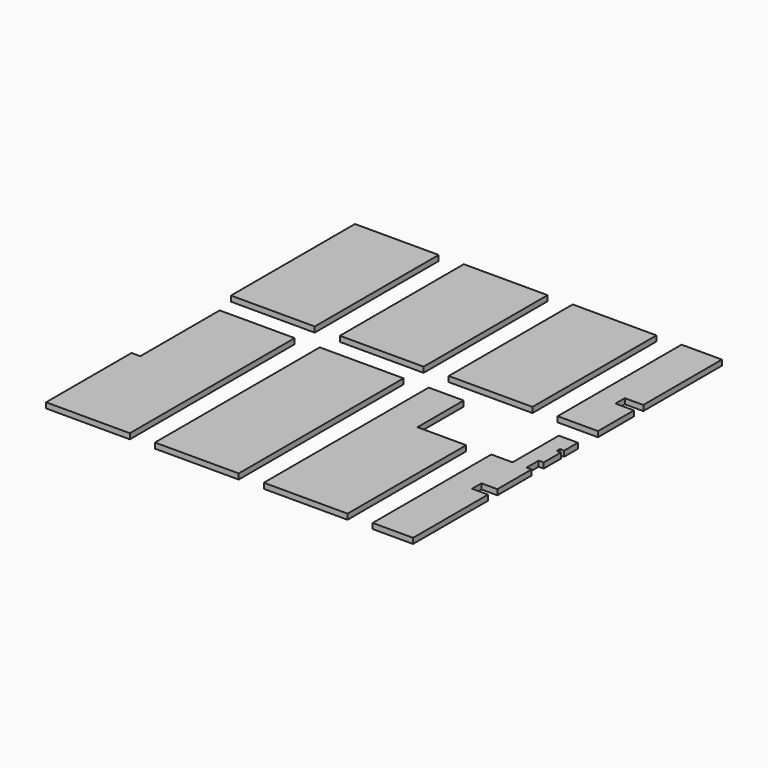
from build123d import *

# Parameters (mm, degrees)
F0_W     = 1000
F0_H     = 1850
F0_H_2   = 2460
F1_DEPTH = 65


with BuildPart() as f1:
    # F0 (on Top) → F1 (new body)
    with BuildSketch(Plane.XY):
        with Locations((-38.833477, 16.868559)):
            Rectangle(F0_W, F0_H)
        with Locations((1261.166523, 16.868559)):
            Rectangle(F0_W, F0_H)
        with Locations((2561.166523, 16.868559)):
            Rectangle(F0_W, F0_H)
        Polygon((3361.166523, 941.868559), (3361.166523, -908.131441), (3843.166523, -908.131441), (3843.166523, -372.131441), (3623.166523, -372.131441), (3623.166523, -232.131441), (3843.166523, -232.131441), (3843.166523, 941.868559), align=None)
        Polygon((461.166523, -1208.131441), (-433.833477, -1208.131441), (-433.833477, -2393.131441), (-538.833477, -2393.131441), (-538.833477, -3668.131441), (461.166523, -3668.131441), align=None)
        with Locations((1261.166523, -2438.131441)):
            Rectangle(F0_W, F0_H_2)
        Polygon((2479.166523, -1208.131441), (2061.166523, -1208.131441), (2061.166523, -3668.131441), (3061.166523, -3668.131441), (3061.166523, -1898.131441), (2479.166523, -1898.131441), align=None)
        Polygon((3843.166523, -1208.131441), (3615.166523, -1208.131441), (3615.166523, -1898.131441), (3361.166523, -1898.131441), (3361.166523, -3668.131441), (3843.166523, -3668.131441), (3843.166523, -2550.131441), (3653.166523, -2550.131441), (3653.166523, -2410.131441), (3843.166523, -2410.131441), (3843.166523, -1898.131441), (3783.166523, -1898.131441), (3783.166523, -1718.131441), (3843.166523, -1718.131441), (3843.166523, -1463.131441), (3793.166523, -1463.131441), (3793.166523, -1413.131441), (3843.166523, -1413.131441), align=None)
    extrude(amount=F1_DEPTH)


solid = f1.part
